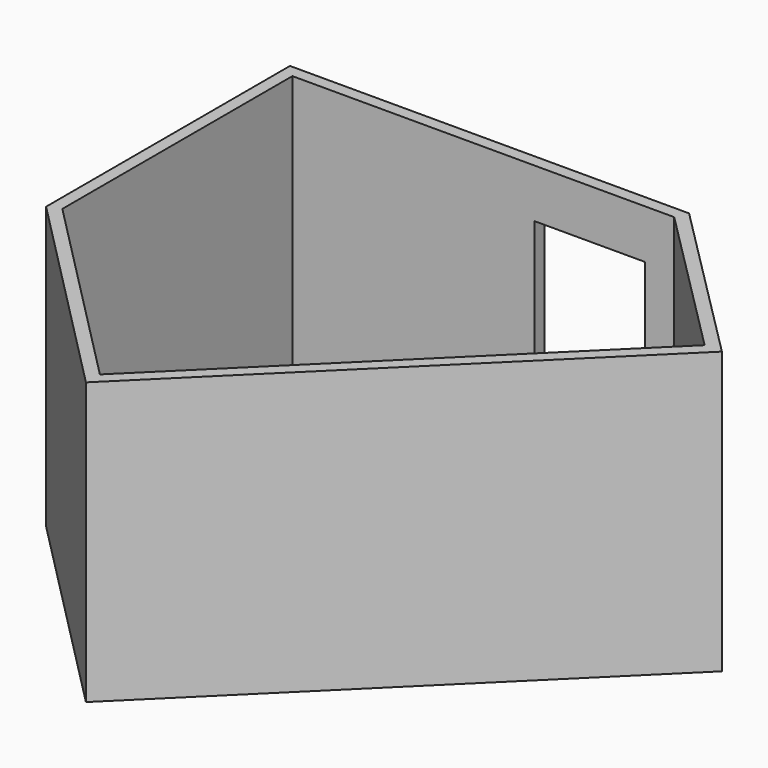
from build123d import *

# Parameters (mm, degrees)
F1_DEPTH = 2200
F3_DEPTH = 100
F4_W     = 900
F4_H     = 1800
F5_DEPTH = 100


with BuildPart() as f1:
    # F0 (on Top) → F1 (new body)
    with BuildSketch(Plane.XY):
        Polygon((281.503142, 0), (0, 0), (-2980, 0), (-2980, -2491.051698), (-1264.856789, -4228.007989), (1638.661755, -1360.952471), align=None)
        Polygon((-2880, -2450), (-2880, -100), (0, -100), (240, -100), (1496.89206, -1360.405629), (-1263.963195, -4086.589456), align=None, mode=Mode.SUBTRACT)
    extrude(amount=F1_DEPTH)

    # F2 (on Top) → F3 (join)
    with BuildSketch(Plane.XY):
        Polygon((-2980, -2491.051698), (-1264.856789, -4228.007989), (1638.661755, -1360.952471), (281.503142, 0), (-2980, 0), align=None)
    extrude(amount=-F3_DEPTH)

    # F4 (on face) → F5 (cut, through all)
    with BuildSketch(Plane.XZ.offset(100)):
        with Locations((-450, 900)):
            Rectangle(F4_W, F4_H)
    extrude(amount=-F5_DEPTH, mode=Mode.SUBTRACT)


solid = f1.part
